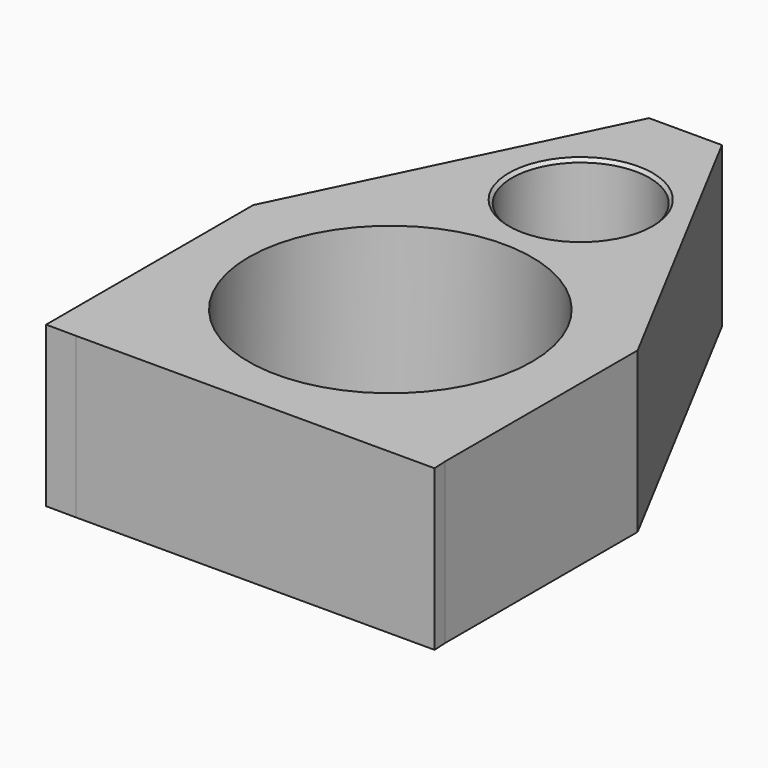
from build123d import *

# Parameters (mm, degrees)
F0_R     = 22.5
F0_R_2   = 10.925
F1_DEPTH = 25.4
F2_SIZE  = 0.508
F3_SIZE  = 0.508


with BuildPart() as f1:
    # F0 (on Top) → F1 (new body)
    with BuildSketch(Plane.XY):
        Polygon((30.807892, 10.602966), (4.521396, 60.1965), (-7.053799, 60.1965), (-30.807892, 11.287956), (-30.807892, -23.549838), (-30.807892, -29.851647), (-26.064852, -29.880841), (30.927461, -29.880841), (30.807892, -27.640185), align=None)
        Circle(F0_R, mode=Mode.SUBTRACT)
        with Locations((0, 37.812808)):
            Circle(F0_R_2, mode=Mode.SUBTRACT)
    extrude(amount=F1_DEPTH)

    # F2
    f2_edges = [f1.edges().sort_by_distance(p)[0] for p in [
        (-10.925, 37.812808, 0),
    ]]
    chamfer(f2_edges, length=F2_SIZE)

    # F3
    f3_edges = [f1.edges().sort_by_distance(p)[0] for p in [
        (-10.925, 37.812808, 25.4),
    ]]
    chamfer(f3_edges, length=F3_SIZE)


solid = f1.part
